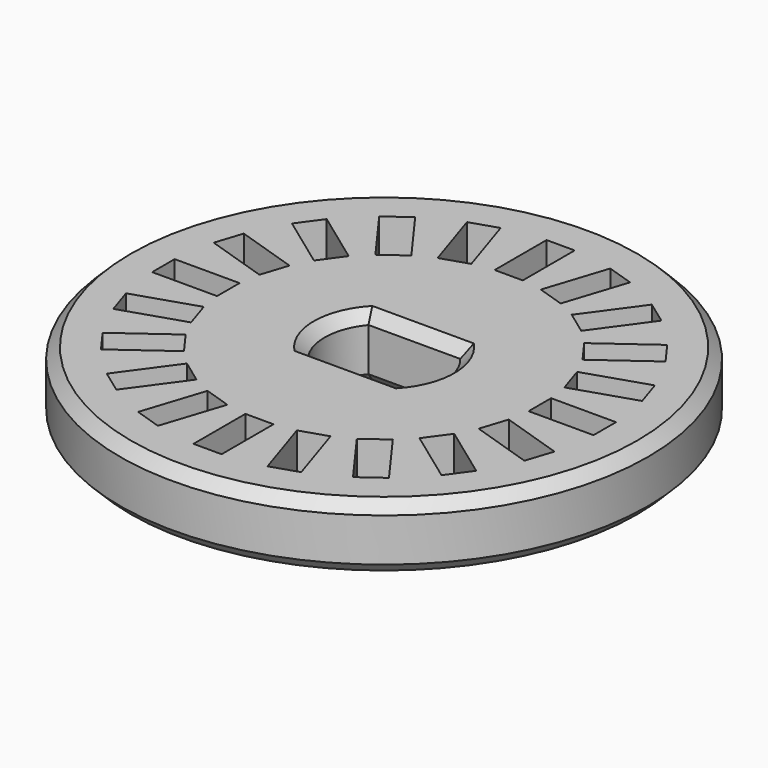
from build123d import *

# Parameters (mm, degrees)
SKETCH002_R        = 12.2
PAD_DEPTH          = 3
POCKET_DEPTH       = 3.001
SKETCH003_W        = 1.3
SKETCH003_H        = 3
POCKET001_DEPTH    = 72.274949
POLARPATTERN_COUNT = 20
CHAMFER_SIZE       = 0.5


with BuildPart() as part:
    # Sketch002 → Pad (new body)
    with BuildSketch(Plane.XY):
        Circle(SKETCH002_R)
    extrude(amount=PAD_DEPTH)

    # Sketch → Pocket (cut, through all)
    with BuildSketch(Plane.XY.offset(3)):
        with BuildLine():
            Line((-2.12132, 1.75), (2.12132, 1.75))
            ThreePointArc((2.12132, -1.75), (2.75, 0), (2.12132, 1.75))
            Line((-2.12132, -1.75), (2.12132, -1.75))
            ThreePointArc((-2.12132, 1.75), (-2.75, 0), (-2.12132, -1.75))
        make_face()
    extrude(amount=-POCKET_DEPTH, mode=Mode.SUBTRACT)

    # Sketch003 → Pocket001 (cut, through all)
    with BuildSketch(Plane.XY.offset(3)):
        with Locations((0, 8.7)):
            Rectangle(SKETCH003_W, SKETCH003_H)
    pocket001 = extrude(amount=-POCKET001_DEPTH, mode=Mode.SUBTRACT)

    # PolarPattern: Pocket001 ×20 about axis
    polarpattern_axis = Axis((0, 0, 3), (0, 0, 1))
    for i in range(1, POLARPATTERN_COUNT):
        add(pocket001.rotate(polarpattern_axis, i * 360 / POLARPATTERN_COUNT), mode=Mode.SUBTRACT)

    # Chamfer
    chamfer_edges = [part.edges().sort_by_distance(p)[0] for p in [
        (-2.75, 0, 3),
        (0, 1.75, 3),
        (2.75, 0, 3),
        (0, -1.75, 3),
        (-12.2, 0, 3),
        (-12.2, 0, 0),
        (-2.75, 0, 0),
        (0, 1.75, 0),
        (0, -1.75, 0),
        (2.75, 0, 0),
    ]]
    chamfer(chamfer_edges, length=CHAMFER_SIZE)


solid = part.part
